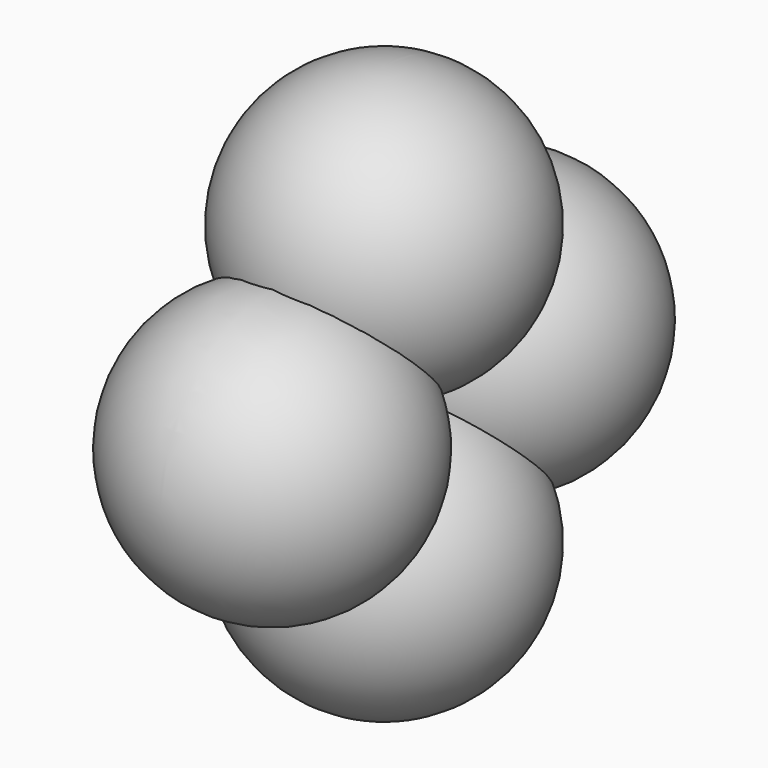
from build123d import *


with BuildPart() as f1:
    # F0 (on Right) → F1 (revolve)
    with BuildSketch(Plane.YZ):
        with BuildLine():
            ThreePointArc((0, -12.7), (6.35, -6.35), (0, 0))
            Line((0, 0), (0, -12.7))
        make_face()
    revolve(axis=Axis((0, 0, -6.35), (0, 0, -1)))


with BuildPart() as f3:
    # F2 (on Right) → F3 (revolve)
    with BuildSketch(Plane.YZ):
        with BuildLine():
            Line((0, 12.7), (0, 0))
            ThreePointArc((0, 0), (6.35, 6.35), (0, 12.7))
        make_face()
    revolve(axis=Axis((0, 0, 6.35), (0, 0, 1)))


with BuildPart() as f5:
    # F4 (on Right) → F5 (revolve)
    with BuildSketch(Plane.YZ):
        with BuildLine():
            Line((12.7, 0), (0, 0))
            ThreePointArc((0, 0), (6.35, -6.35), (12.7, 0))
        make_face()
    revolve(axis=Axis((0, 6.35, 0), (0, 1, 0)))


with BuildPart() as f7:
    # F6 (on Right) → F7 (revolve)
    with BuildSketch(Plane.YZ):
        with BuildLine():
            Line((-12.7, 0), (0, 0))
            ThreePointArc((0, 0), (-6.35, 6.35), (-12.7, 0))
        make_face()
    revolve(axis=Axis((0, -6.35, 0), (0, -1, 0)))


solid = Compound([f1.part, f3.part, f5.part, f7.part])
